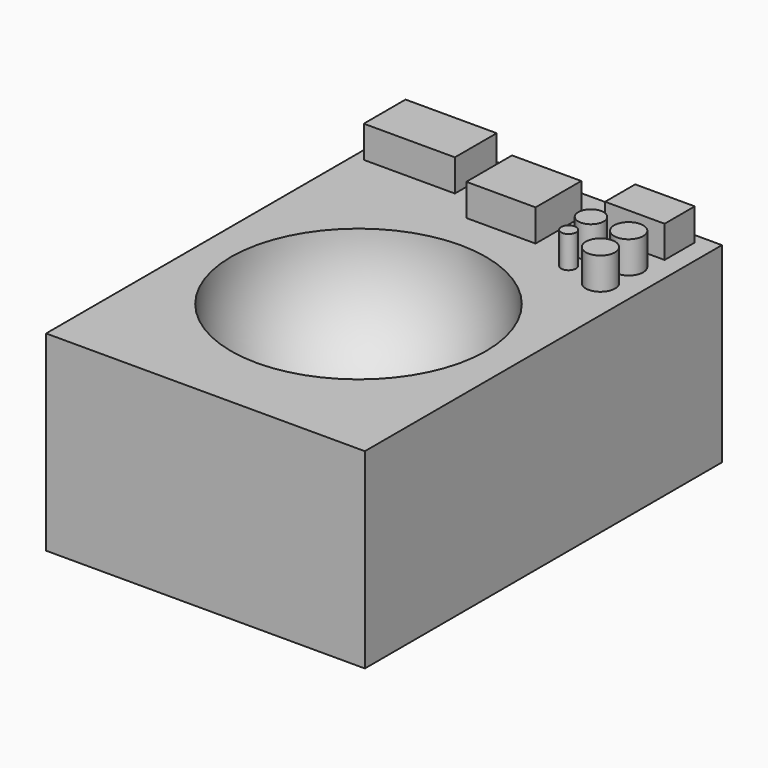
from build123d import *

# Parameters (mm, degrees)
F0_W     = 127
F0_H     = 177.8
F1_DEPTH = 76.2
F4_W     = 36.302225
F4_H     = 20.813279
F4_W_2   = 27.589691
F4_H_2   = 22.749387
F4_W_3   = 23.717456
F4_H_3   = 15.004918
F4_R     = 5.053417
F4_R_2   = 5.808353
F4_R_3   = 2.944236
F4_R_4   = 5.808361
F5_DEPTH = 12.7


with BuildPart() as f1:
    # F0 (on Top) → F1 (new body)
    with BuildSketch(Plane.XY):
        with Locations((0, 12.7)):
            Rectangle(F0_W, F0_H)
    extrude(amount=-F1_DEPTH)

    # F2 (on face) → F3 (revolve, cut)
    with BuildSketch(Plane.XY):
        with BuildLine():
            Line((0, 50.8), (0, -50.8))
            ThreePointArc((0, -50.8), (50.8, 0), (0, 50.8))
        make_face()
    revolve(axis=Axis((0, 0, 0), (0, -1, 0)), mode=Mode.SUBTRACT)

    # F4 (on face) → F5 (join)
    with BuildSketch(Plane.XY):
        with Locations((-41.225782, 87.253075)):
            Rectangle(F4_W, F4_H)
        with Locations((3.788977, 77.572484)):
            Rectangle(F4_W_2, F4_H_2)
        with Locations((43.96344, 90.157256)):
            Rectangle(F4_W_3, F4_H_3)
        with Locations((35.008892, 72.006144)):
            Circle(F4_R)
        with Locations((50.013807, 72.006144)):
            Circle(F4_R_2)
        with Locations((35.008892, 60.87346)):
            Circle(F4_R_3)
        with Locations((50.013807, 57.969283)):
            Circle(F4_R_4)
    extrude(amount=F5_DEPTH)


solid = f1.part
